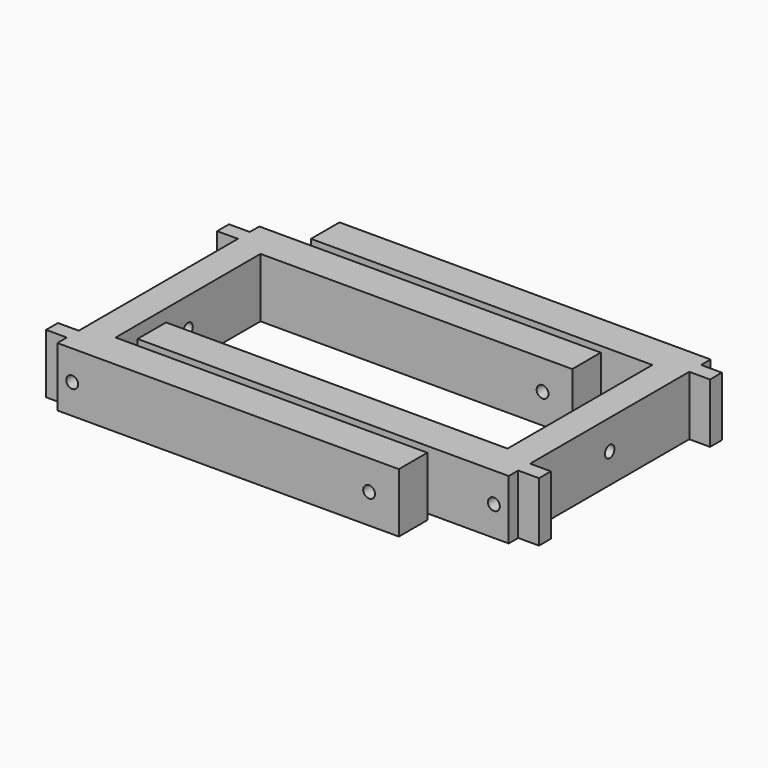
from build123d import *

# Parameters (mm, degrees)
PAD_DEPTH       = 20
SKETCH004_R     = 2
POCKET002_DEPTH = 115.001
SKETCH005_R     = 2
POCKET003_DEPTH = 85.001
PAD001_DEPTH    = 20
SKETCH007_R     = 2
POCKET004_DEPTH = 125.001
SKETCH008_R     = 2
POCKET005_DEPTH = 85.001


with BuildPart() as soporte_agujero_superior_lateral:
    # Sketch → Pad (new body)
    with BuildSketch(Plane.XY):
        Polygon((-10, -42.5), (105, -42.5), (105, -30.5), (0, -30.5), (0, 30.5), (105, 30.5), (105, 42.5), (-10, 42.5), (-10, 38.5), (-17, 38.5), (-17, 33.5), (-10, 33.5), (-10, -33.5), (-17, -33.5), (-17, -38.5), (-10, -38.5), align=None)
    extrude(amount=PAD_DEPTH)

    # Sketch004 → Pocket002 (cut, through all)
    with BuildSketch(Plane(origin=(-10, 0, 0), x_dir=(0, -1, 0), z_dir=(-1, 0, 0))):
        with Locations((0, 10)):
            Circle(SKETCH004_R)
    extrude(amount=-POCKET002_DEPTH, mode=Mode.SUBTRACT)

    # Sketch005 → Pocket003 (cut, through all)
    with BuildSketch(Plane.XZ.offset(42.5)):
        with Locations((-5, 10)):
            Circle(SKETCH005_R)
        with Locations((95, 10)):
            Circle(SKETCH005_R)
    extrude(amount=-POCKET003_DEPTH, mode=Mode.SUBTRACT)


with BuildPart() as soporte_agujero_superior_lateral001:
    # Sketch006 → Pad001 (new body)
    with BuildSketch(Plane(origin=(120, 15, 0), x_dir=(-1, 0, 0), z_dir=(0, 0, 1))):
        Polygon((-10, -42.5), (115, -42.5), (115, -30.5), (0, -30.5), (0, 30.5), (115, 30.5), (115, 42.5), (-10, 42.5), (-10, 38.5), (-17, 38.5), (-17, 33.5), (-10, 33.5), (-10, -33.5), (-17, -33.5), (-17, -38.5), (-10, -38.5), align=None)
    extrude(amount=PAD001_DEPTH)

    # Sketch007 → Pocket004 (cut, through all)
    with BuildSketch(Plane(origin=(130, 15, 0), x_dir=(0, 1, 0), z_dir=(1, 0, 0))):
        with Locations((0, 10)):
            Circle(SKETCH007_R)
    extrude(amount=-POCKET004_DEPTH, mode=Mode.SUBTRACT)

    # Sketch008 → Pocket005 (cut, through all)
    with BuildSketch(Plane(origin=(120, 57.5, 0), x_dir=(-1, 0, 0), z_dir=(0, 1, 0))):
        with Locations((-5, 10)):
            Circle(SKETCH008_R)
        with Locations((105, 10)):
            Circle(SKETCH008_R)
    extrude(amount=-POCKET005_DEPTH, mode=Mode.SUBTRACT)


solid = Compound([soporte_agujero_superior_lateral.part, soporte_agujero_superior_lateral001.part])
